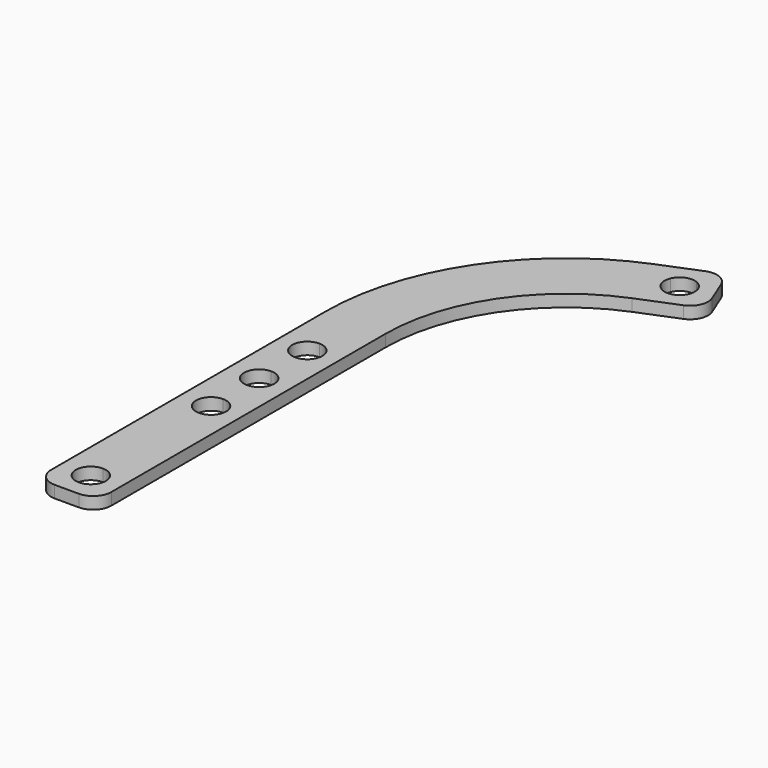
from build123d import *

# Parameters (mm, degrees)
F1_DEPTH = 2
F2_R     = 3


with BuildPart() as f1:
    # F0 (on Top) → F1 (new body)
    with BuildSketch(Plane.XY):
        with BuildLine():
            Line((-19.9262133054, 67.5084236264), (-19.9262133054, 7.5084236264))
            Line((-19.9262133054, 7.5084236264), (-14.9262133054, 7.5084236264))
            Line((-14.9262133054, 7.5084236264), (-14.9262133054, 10.0084236264))
            ThreePointArc((-14.9262133054, 10.0084236264), (-17.4262133054, 12.5084236264), (-14.9262133054, 15.0084236264))
            Line((-14.9262133054, 15.0084236264), (-14.9262133054, 35.0084236264))
            ThreePointArc((-14.9262133054, 35.0084236264), (-17.4262133054, 37.5084236264), (-14.9262133054, 40.0084236264))
            Line((-14.9262133054, 40.0084236264), (-14.9262133054, 45.0084236264))
            ThreePointArc((-14.9262133054, 45.0084236264), (-17.4262133054, 47.5084236264), (-14.9262133054, 50.0084236264))
            Line((-14.9262133054, 50.0084236264), (-14.9262133054, 55.0084236264))
            ThreePointArc((-14.9262133054, 55.0084236264), (-17.4262133054, 57.5084236264), (-14.9262133054, 60.0084236264))
            Line((-14.9262133054, 60.0084236264), (-14.9262133054, 67.5084236264))
            Line((-14.9262133054, 67.5084236264), (-19.9262133054, 67.5084236264))
        make_face()
        with BuildLine():
            Line((-14.9262133054, 10.0084236264), (-14.9262133054, 7.5084236264))
            Line((-14.9262133054, 7.5084236264), (-9.9262133054, 7.5084236264))
            Line((-9.9262133054, 7.5084236264), (-9.9262133054, 67.5084236264))
            Line((-9.9262133054, 67.5084236264), (-14.9262133054, 67.5084236264))
            Line((-14.9262133054, 67.5084236264), (-14.9262133054, 60.0084236264))
            ThreePointArc((-14.9262133054, 60.0084236264), (-13.1584463525, 59.2761905794), (-12.4262133054, 57.5084236264))
            ThreePointArc((-12.4262133054, 57.5084236264), (-13.1584463525, 55.7406566735), (-14.9262133054, 55.0084236264))
            Line((-14.9262133054, 55.0084236264), (-14.9262133054, 50.0084236264))
            ThreePointArc((-14.9262133054, 50.0084236264), (-13.1584463525, 49.2761905794), (-12.4262133054, 47.5084236264))
            ThreePointArc((-12.4262133054, 47.5084236264), (-13.1584463525, 45.7406566735), (-14.9262133054, 45.0084236264))
            Line((-14.9262133054, 45.0084236264), (-14.9262133054, 40.0084236264))
            ThreePointArc((-14.9262133054, 40.0084236264), (-13.1584463525, 39.2761905794), (-12.4262133054, 37.5084236264))
            ThreePointArc((-12.4262133054, 37.5084236264), (-13.1584463525, 35.7406566735), (-14.9262133054, 35.0084236264))
            Line((-14.9262133054, 35.0084236264), (-14.9262133054, 15.0084236264))
            ThreePointArc((-14.9262133054, 15.0084236264), (-13.1584463525, 14.2761905794), (-12.4262133054, 12.5084236264))
            ThreePointArc((-12.4262133054, 12.5084236264), (-13.1584463525, 10.7406566735), (-14.9262133054, 10.0084236264))
        make_face()
        with BuildLine():
            ThreePointArc((5.0330087342, 104.5728944624), (-13.1047539486, 89.8508595006), (-19.9262133054, 67.5084236264))
            Line((-19.9262133054, 67.5084236264), (-14.9262133054, 67.5084236264))
            ThreePointArc((-14.9262133054, 67.5084236264), (-8.9574363682, 87.0580550164), (6.9131059793, 99.9398356079))
            Line((6.9131059793, 99.9398356079), (5.0330087342, 104.5728944624))
        make_face()
        with BuildLine():
            ThreePointArc((6.9131059793, 99.9398356079), (-8.9574363682, 87.0580550164), (-14.9262133054, 67.5084236264))
            Line((-14.9262133054, 67.5084236264), (-9.9262133054, 67.5084236264))
            ThreePointArc((-9.9262133054, 67.5084236264), (-4.8101187878, 84.2652505321), (8.7932032243, 95.3067767534))
            Line((8.7932032243, 95.3067767534), (6.9131059793, 99.9398356079))
        make_face()
        with BuildLine():
            Line((9.2434164113, 102.7932517641), (5.0330087342, 104.5728944624))
            Line((5.0330087342, 104.5728944624), (6.9131059793, 99.9398356079))
            Line((6.9131059793, 99.9398356079), (8.7932032243, 95.3067767534))
            Line((8.7932032243, 95.3067767534), (10.5728459226, 99.5171844305))
            ThreePointArc((10.5728459226, 99.5171844305), (9.2296354065, 100.8798842304), (9.2434164113, 102.7932517641))
        make_face()
        with BuildLine():
            Line((10.5728459226, 99.5171844305), (8.7932032243, 95.3067767534))
            Line((8.7932032243, 95.3067767534), (18.0593209333, 99.0669712435))
            Line((18.0593209333, 99.0669712435), (13.8489132562, 100.8466139417))
            ThreePointArc((13.8489132562, 100.8466139417), (12.4862134563, 99.5034034257), (10.5728459226, 99.5171844305))
        make_face()
        with BuildLine():
            Line((18.0593209333, 99.0669712435), (14.2991264432, 108.3330889524))
            Line((14.2991264432, 108.3330889524), (12.519483745, 104.1226812754))
            ThreePointArc((12.519483745, 104.1226812754), (13.6298271478, 103.2013637636), (14.0461648338, 101.8199328529))
            ThreePointArc((14.0461648338, 101.8199328529), (13.9963557504, 101.3233802656), (13.8489132562, 100.8466139417))
            Line((13.8489132562, 100.8466139417), (18.0593209333, 99.0669712435))
        make_face()
        with BuildLine():
            Line((14.2991264432, 108.3330889524), (5.0330087342, 104.5728944624))
            Line((5.0330087342, 104.5728944624), (9.2434164113, 102.7932517641))
            ThreePointArc((9.2434164113, 102.7932517641), (10.6061162112, 104.1364622802), (12.519483745, 104.1226812754))
            Line((12.519483745, 104.1226812754), (14.2991264432, 108.3330889524))
        make_face()
    extrude(amount=F1_DEPTH)

    # F2
    f2_edges = [f1.edges().sort_by_distance(p)[0] for p in [
        (14.299126, 108.333089, 1),
        (18.059321, 99.066971, 1),
        (-9.926213, 7.508424, 1),
        (-19.926213, 7.508424, 1),
    ]]
    fillet(f2_edges, radius=F2_R)


solid = f1.part
